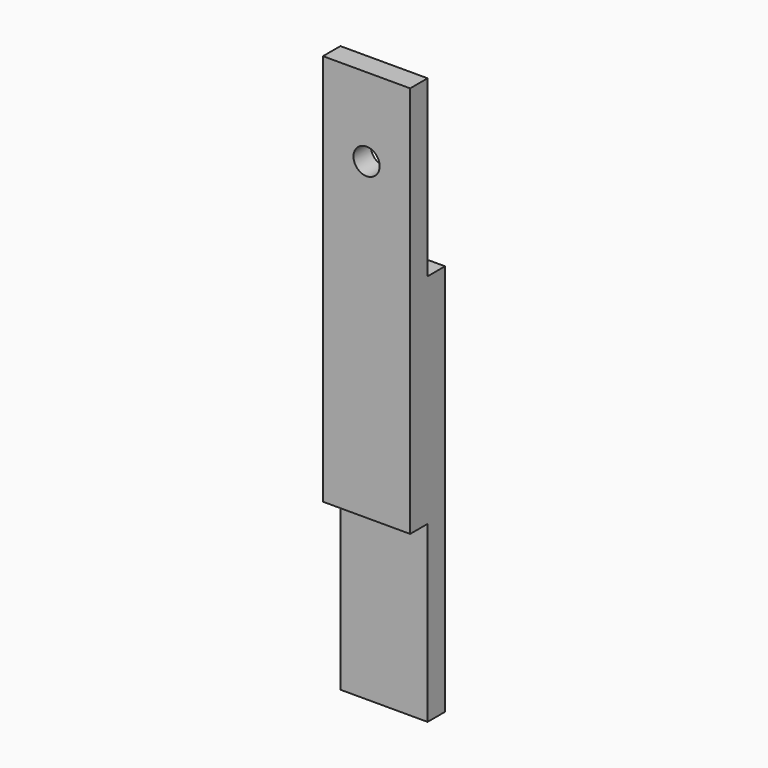
from build123d import *

# Parameters (mm, degrees)
F0_W     = 25.4
F0_H     = 165.1
F1_DEPTH = 12.7
F2_W     = 25.4
F2_H     = 50.8
F3_DEPTH = 6.35
F4_DEPTH = 6.35
F5_W     = 25.4
F5_H     = 50.8
F6_DEPTH = 6.35
F7_R     = 3.81
F8_DEPTH = 25.4


with BuildPart() as f1:
    # F0 (on Front) → F1 (new body)
    with BuildSketch(Plane.XZ):
        with Locations((12.7, 82.55)):
            Rectangle(F0_W, F0_H)
    extrude(amount=F1_DEPTH)

    # F2 (on face) → F3 (join)
    with BuildSketch(Plane.XZ.offset(12.7)):
        with Locations((12.7, 25.4)):
            Rectangle(F2_W, F2_H)
    extrude(amount=-F3_DEPTH)

    # F2 (on face) → F4 (cut)
    with BuildSketch(Plane.XZ.offset(12.7)):
        with Locations((12.7, 25.4)):
            Rectangle(F2_W, F2_H)
    extrude(amount=-F4_DEPTH, mode=Mode.SUBTRACT)

    # F5 (on face) → F6 (cut)
    with BuildSketch(Plane(origin=(0, 0, 0), x_dir=(-1, 0, 0), z_dir=(0, 1, 0))):
        with Locations((-12.7, 139.7)):
            Rectangle(F5_W, F5_H)
    extrude(amount=-F6_DEPTH, mode=Mode.SUBTRACT)

    # F7 (on face) → F8 (cut)
    with BuildSketch(Plane.XZ.offset(12.7)):
        with Locations((12.7, 142.24)):
            Circle(F7_R)
    extrude(amount=-F8_DEPTH, mode=Mode.SUBTRACT)


solid = f1.part
